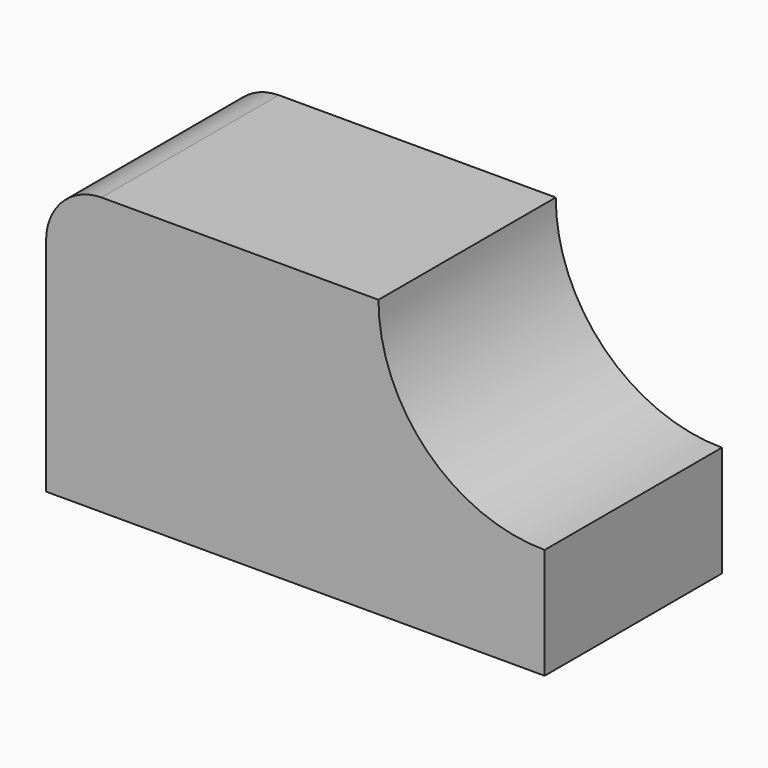
from build123d import *

# Parameters (mm, degrees)
F0_W     = 57.15
F0_H     = 31.75
F1_DEPTH = 25.4
F3_DEPTH = 25.4
F5_DEPTH = 25.4


with BuildPart() as f1:
    # F0 (on Front) → F1 (new body)
    with BuildSketch(Plane.XZ):
        with Locations((2.448356, 6.53348)):
            Rectangle(F0_W, F0_H)
    extrude(amount=F1_DEPTH)

    # F2 (on face) → F3 (cut)
    with BuildSketch(Plane.XZ.offset(25.4)):
        with BuildLine():
            Line((31.023356, 22.40848), (11.973356, 22.40848))
            ThreePointArc((11.973356, 22.40848), (17.552972, 8.938096), (31.023356, 3.35848))
            Line((31.023356, 3.35848), (31.023356, 22.40848))
        make_face()
    extrude(amount=-F3_DEPTH, mode=Mode.SUBTRACT)

    # F4 (on face) → F5 (cut)
    with BuildSketch(Plane.XZ.offset(25.4)):
        with BuildLine():
            ThreePointArc((-26.126644, 16.05848), (-24.244579, 20.526415), (-19.776644, 22.40848))
            Line((-19.776644, 22.40848), (-26.126644, 22.40848))
            Line((-26.126644, 22.40848), (-26.126644, 16.05848))
        make_face()
    extrude(amount=-F5_DEPTH, mode=Mode.SUBTRACT)


solid = f1.part
